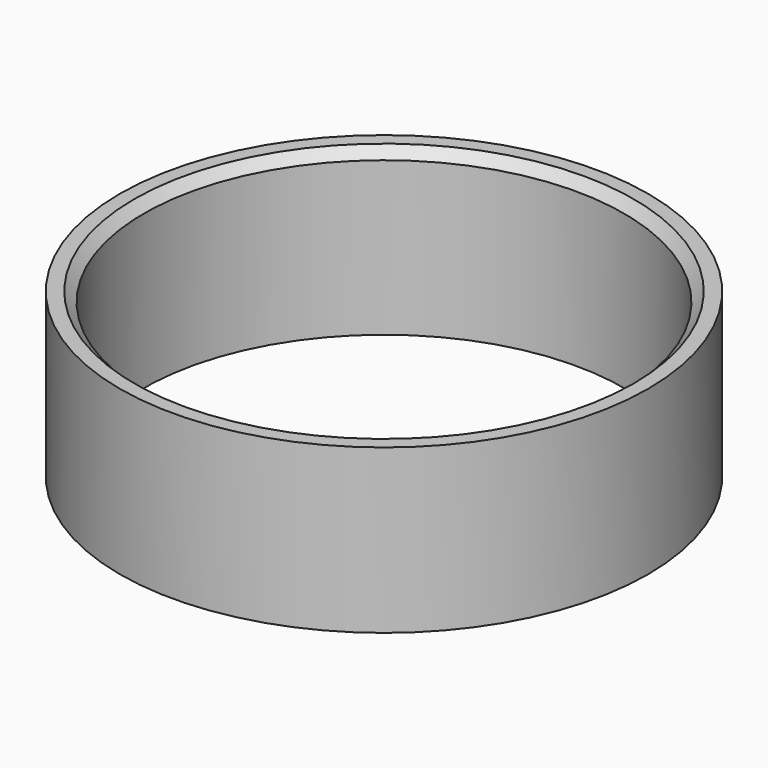
from build123d import *

# Parameters (mm, degrees)
SKETCH_R     = 27.5
SKETCH_R_2   = 25
PAD_DEPTH    = 17
CHAMFER_SIZE = 1


with BuildPart() as part:
    # Sketch → Pad (new body)
    with BuildSketch(Plane.XY):
        Circle(SKETCH_R)
        Circle(SKETCH_R_2, mode=Mode.SUBTRACT)
    extrude(amount=PAD_DEPTH)

    # Chamfer
    chamfer_edges = [part.edges().sort_by_distance(p)[0] for p in [
        (-25, 0, 17),
    ]]
    chamfer(chamfer_edges, length=CHAMFER_SIZE)


solid = part.part
